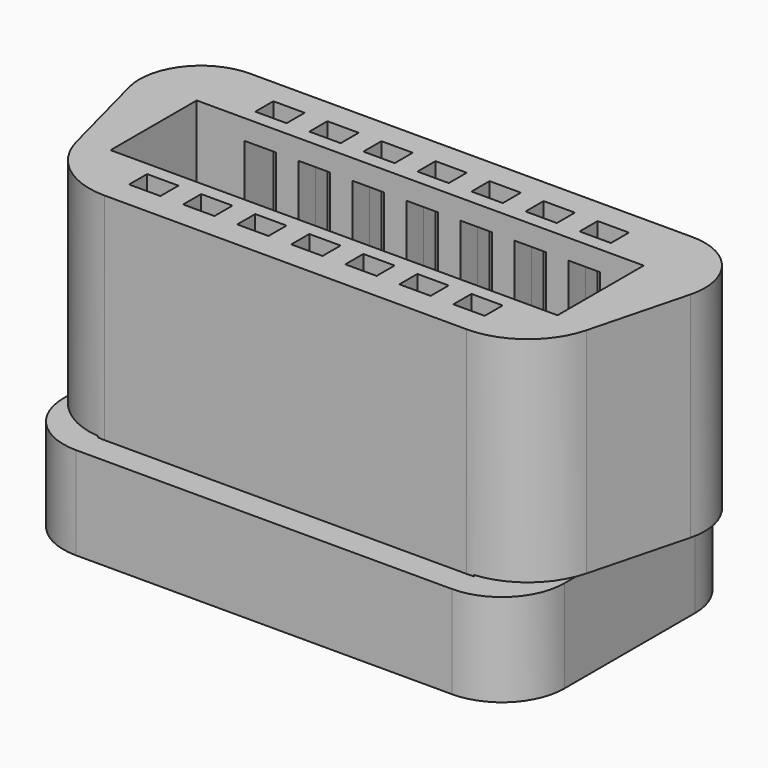
from build123d import *

# Parameters (mm, degrees)
PAD_DEPTH                       = 12.3
BOX059_W                        = 17.85
BOX059_H                        = 4.3
BOX059_DEPTH                    = 10
BOX060_W                        = 1.25
BOX060_H                        = 0.9
BOX060_DEPTH                    = 7.5
POCKET002_DEPTH                 = 2.3
POCKET002_LINEARPATTERN_2_DEPTH = 2.3
POCKET002_LINEARPATTERN_3_DEPTH = 2.3
POCKET002_LINEARPATTERN_4_DEPTH = 2.3
POCKET002_LINEARPATTERN_5_DEPTH = 2.3
POCKET002_LINEARPATTERN_6_DEPTH = 2.3
POCKET002_LINEARPATTERN_7_DEPTH = 2.3
BOX060_LINEARPATTERN001_2_W     = 1.25
BOX060_LINEARPATTERN001_2_H     = 0.9
BOX060_LINEARPATTERN001_2_DEPTH = 7.5
BOX060_LINEARPATTERN001_3_W     = 1.25
BOX060_LINEARPATTERN001_3_H     = 0.9
BOX060_LINEARPATTERN001_3_DEPTH = 7.5
BOX060_LINEARPATTERN001_4_W     = 1.25
BOX060_LINEARPATTERN001_4_H     = 0.9
BOX060_LINEARPATTERN001_4_DEPTH = 7.5
BOX060_LINEARPATTERN001_5_W     = 1.25
BOX060_LINEARPATTERN001_5_H     = 0.9
BOX060_LINEARPATTERN001_5_DEPTH = 7.5
BOX060_LINEARPATTERN001_6_W     = 1.25
BOX060_LINEARPATTERN001_6_H     = 0.9
BOX060_LINEARPATTERN001_6_DEPTH = 7.5
BOX060_LINEARPATTERN001_7_W     = 1.25
BOX060_LINEARPATTERN001_7_H     = 0.9
BOX060_LINEARPATTERN001_7_DEPTH = 7.5
BOX073_W                        = 1.27
BOX073_H                        = 1.3
BOX073_DEPTH                    = 5
BOX073_LINEARPATTERN002_2_W     = 1.27
BOX073_LINEARPATTERN002_2_H     = 1.3
BOX073_LINEARPATTERN002_2_DEPTH = 5
BOX073_LINEARPATTERN002_3_W     = 1.27
BOX073_LINEARPATTERN002_3_H     = 1.3
BOX073_LINEARPATTERN002_3_DEPTH = 5
BOX073_LINEARPATTERN002_4_W     = 1.27
BOX073_LINEARPATTERN002_4_H     = 1.3
BOX073_LINEARPATTERN002_4_DEPTH = 5
BOX073_LINEARPATTERN002_5_W     = 1.27
BOX073_LINEARPATTERN002_5_H     = 1.3
BOX073_LINEARPATTERN002_5_DEPTH = 5
BOX073_LINEARPATTERN002_6_W     = 1.27
BOX073_LINEARPATTERN002_6_H     = 1.3
BOX073_LINEARPATTERN002_6_DEPTH = 5
BOX073_LINEARPATTERN002_7_W     = 1.27
BOX073_LINEARPATTERN002_7_H     = 1.3
BOX073_LINEARPATTERN002_7_DEPTH = 5
BOX074_W                        = 5
BOX074_H                        = 10
BOX074_DEPTH                    = 4
BOX076_W                        = 2.5
BOX076_H                        = 11.5
BOX076_DEPTH                    = 3.7
BOX077_W                        = 15
BOX077_H                        = 1.155
BOX077_DEPTH                    = 3.7
BOX078_W                        = 15
BOX078_H                        = 1.11
BOX078_DEPTH                    = 3.7
FILLET076_R                     = 2.49


with BuildPart() as part:
    # Sketch004 → Pad (new body)
    with BuildSketch(Plane.XY):
        with BuildLine():
            Line((-8.83497, 4.603946), (0, 4.603946))
            Line((8.83497, 4.603946), (0, 4.603946))
            ThreePointArc((11.206338, 1.532899), (10.77499, 3.650898), (8.83497, 4.603946))
            Line((11.206338, 1.532899), (10.183771, -2.378367))
            ThreePointArc((7.230294, -4.658952), (9.096044, -4.02245), (10.183771, -2.378367))
            Line((0, -4.658952), (7.230294, -4.658952))
            Line((0, -4.658952), (-7.230294, -4.658952))
            ThreePointArc((-10.183771, -2.378367), (-9.096044, -4.02245), (-7.230294, -4.658952))
            Line((-11.206338, 1.532899), (-10.183771, -2.378367))
            ThreePointArc((-8.83497, 4.603946), (-10.77499, 3.650898), (-11.206338, 1.532899))
        make_face()
    extrude(amount=PAD_DEPTH)

    # Box059 → Box059 (cut)
    with BuildSketch(Plane(origin=(-9, -2.15, 2.3), x_dir=(1, 0, 0), z_dir=(0, 0, 1))):
        with Locations((8.925, 2.15)):
            Rectangle(BOX059_W, BOX059_H)
    extrude(amount=BOX059_DEPTH, mode=Mode.SUBTRACT)

    # Box060 → Box060 (cut)
    with BuildSketch(Plane(origin=(-7.1, 2.7, 5), x_dir=(1, 0, 0), z_dir=(0, 0, 1))):
        with Locations((0.625, 0.45)):
            Rectangle(BOX060_W, BOX060_H)
    box060 = extrude(amount=BOX060_DEPTH, mode=Mode.SUBTRACT)

    # Sketch005 → Pocket002 (cut, symmetric)
    with BuildSketch(Plane.XY):
        with BuildLine():
            ThreePointArc((-7.28, 2.34), (-7.250711, 2.269289), (-7.18, 2.24))
            Line((-5.78, 2.24), (-7.18, 2.24))
            ThreePointArc((-5.78, 2.24), (-5.709289, 2.269289), (-5.68, 2.34))
            Line((-5.68, 2.54), (-5.68, 2.34))
            ThreePointArc((-5.68, 2.54), (-5.709289, 2.610711), (-5.78, 2.64))
            Line((-7.18, 2.64), (-5.78, 2.64))
            ThreePointArc((-7.18, 2.64), (-7.250711, 2.610711), (-7.28, 2.54))
            Line((-7.28, 2.34), (-7.28, 2.54))
        make_face()
    pocket002 = extrude(amount=POCKET002_DEPTH, both=True, mode=Mode.SUBTRACT)

    # Sketch005 LinearPattern 2 → Pocket002 LinearPattern 2 (cut, symmetric)
    with BuildSketch(Plane(origin=(2.16, 0, 0), x_dir=(1, 0, 0), z_dir=(0, 0, 1))):
        with BuildLine():
            ThreePointArc((-7.28, 2.34), (-7.250711, 2.269289), (-7.18, 2.24))
            Line((-5.78, 2.24), (-7.18, 2.24))
            ThreePointArc((-5.78, 2.24), (-5.709289, 2.269289), (-5.68, 2.34))
            Line((-5.68, 2.54), (-5.68, 2.34))
            ThreePointArc((-5.68, 2.54), (-5.709289, 2.610711), (-5.78, 2.64))
            Line((-7.18, 2.64), (-5.78, 2.64))
            ThreePointArc((-7.18, 2.64), (-7.250711, 2.610711), (-7.28, 2.54))
            Line((-7.28, 2.34), (-7.28, 2.54))
        make_face()
    pocket002_linearpattern_2 = extrude(amount=POCKET002_LINEARPATTERN_2_DEPTH, both=True, mode=Mode.SUBTRACT)

    # Sketch005 LinearPattern 3 → Pocket002 LinearPattern 3 (cut, symmetric)
    with BuildSketch(Plane(origin=(4.32, 0, 0), x_dir=(1, 0, 0), z_dir=(0, 0, 1))):
        with BuildLine():
            ThreePointArc((-7.28, 2.34), (-7.250711, 2.269289), (-7.18, 2.24))
            Line((-5.78, 2.24), (-7.18, 2.24))
            ThreePointArc((-5.78, 2.24), (-5.709289, 2.269289), (-5.68, 2.34))
            Line((-5.68, 2.54), (-5.68, 2.34))
            ThreePointArc((-5.68, 2.54), (-5.709289, 2.610711), (-5.78, 2.64))
            Line((-7.18, 2.64), (-5.78, 2.64))
            ThreePointArc((-7.18, 2.64), (-7.250711, 2.610711), (-7.28, 2.54))
            Line((-7.28, 2.34), (-7.28, 2.54))
        make_face()
    pocket002_linearpattern_3 = extrude(amount=POCKET002_LINEARPATTERN_3_DEPTH, both=True, mode=Mode.SUBTRACT)

    # Sketch005 LinearPattern 4 → Pocket002 LinearPattern 4 (cut, symmetric)
    with BuildSketch(Plane(origin=(6.48, 0, 0), x_dir=(1, 0, 0), z_dir=(0, 0, 1))):
        with BuildLine():
            ThreePointArc((-7.28, 2.34), (-7.250711, 2.269289), (-7.18, 2.24))
            Line((-5.78, 2.24), (-7.18, 2.24))
            ThreePointArc((-5.78, 2.24), (-5.709289, 2.269289), (-5.68, 2.34))
            Line((-5.68, 2.54), (-5.68, 2.34))
            ThreePointArc((-5.68, 2.54), (-5.709289, 2.610711), (-5.78, 2.64))
            Line((-7.18, 2.64), (-5.78, 2.64))
            ThreePointArc((-7.18, 2.64), (-7.250711, 2.610711), (-7.28, 2.54))
            Line((-7.28, 2.34), (-7.28, 2.54))
        make_face()
    pocket002_linearpattern_4 = extrude(amount=POCKET002_LINEARPATTERN_4_DEPTH, both=True, mode=Mode.SUBTRACT)

    # Sketch005 LinearPattern 5 → Pocket002 LinearPattern 5 (cut, symmetric)
    with BuildSketch(Plane(origin=(8.64, 0, 0), x_dir=(1, 0, 0), z_dir=(0, 0, 1))):
        with BuildLine():
            ThreePointArc((-7.28, 2.34), (-7.250711, 2.269289), (-7.18, 2.24))
            Line((-5.78, 2.24), (-7.18, 2.24))
            ThreePointArc((-5.78, 2.24), (-5.709289, 2.269289), (-5.68, 2.34))
            Line((-5.68, 2.54), (-5.68, 2.34))
            ThreePointArc((-5.68, 2.54), (-5.709289, 2.610711), (-5.78, 2.64))
            Line((-7.18, 2.64), (-5.78, 2.64))
            ThreePointArc((-7.18, 2.64), (-7.250711, 2.610711), (-7.28, 2.54))
            Line((-7.28, 2.34), (-7.28, 2.54))
        make_face()
    pocket002_linearpattern_5 = extrude(amount=POCKET002_LINEARPATTERN_5_DEPTH, both=True, mode=Mode.SUBTRACT)

    # Sketch005 LinearPattern 6 → Pocket002 LinearPattern 6 (cut, symmetric)
    with BuildSketch(Plane(origin=(10.8, 0, 0), x_dir=(1, 0, 0), z_dir=(0, 0, 1))):
        with BuildLine():
            ThreePointArc((-7.28, 2.34), (-7.250711, 2.269289), (-7.18, 2.24))
            Line((-5.78, 2.24), (-7.18, 2.24))
            ThreePointArc((-5.78, 2.24), (-5.709289, 2.269289), (-5.68, 2.34))
            Line((-5.68, 2.54), (-5.68, 2.34))
            ThreePointArc((-5.68, 2.54), (-5.709289, 2.610711), (-5.78, 2.64))
            Line((-7.18, 2.64), (-5.78, 2.64))
            ThreePointArc((-7.18, 2.64), (-7.250711, 2.610711), (-7.28, 2.54))
            Line((-7.28, 2.34), (-7.28, 2.54))
        make_face()
    pocket002_linearpattern_6 = extrude(amount=POCKET002_LINEARPATTERN_6_DEPTH, both=True, mode=Mode.SUBTRACT)

    # Sketch005 LinearPattern 7 → Pocket002 LinearPattern 7 (cut, symmetric)
    with BuildSketch(Plane(origin=(12.96, 0, 0), x_dir=(1, 0, 0), z_dir=(0, 0, 1))):
        with BuildLine():
            ThreePointArc((-7.28, 2.34), (-7.250711, 2.269289), (-7.18, 2.24))
            Line((-5.78, 2.24), (-7.18, 2.24))
            ThreePointArc((-5.78, 2.24), (-5.709289, 2.269289), (-5.68, 2.34))
            Line((-5.68, 2.54), (-5.68, 2.34))
            ThreePointArc((-5.68, 2.54), (-5.709289, 2.610711), (-5.78, 2.64))
            Line((-7.18, 2.64), (-5.78, 2.64))
            ThreePointArc((-7.18, 2.64), (-7.250711, 2.610711), (-7.28, 2.54))
            Line((-7.28, 2.34), (-7.28, 2.54))
        make_face()
    pocket002_linearpattern_7 = extrude(amount=POCKET002_LINEARPATTERN_7_DEPTH, both=True, mode=Mode.SUBTRACT)

    # Mirrored: Pocket002, Pocket002 LinearPattern 2, Pocket002 LinearPattern 3, Pocket002 LinearPattern 4, Pocket002 LinearPattern 5, Pocket002 LinearPattern 6, Pocket002 LinearPattern 7 across Sketch005 H_Axis
    add(pocket002.mirror(Plane.ZX), mode=Mode.SUBTRACT)
    add(pocket002_linearpattern_2.mirror(Plane.ZX), mode=Mode.SUBTRACT)
    add(pocket002_linearpattern_3.mirror(Plane.ZX), mode=Mode.SUBTRACT)
    add(pocket002_linearpattern_4.mirror(Plane.ZX), mode=Mode.SUBTRACT)
    add(pocket002_linearpattern_5.mirror(Plane.ZX), mode=Mode.SUBTRACT)
    add(pocket002_linearpattern_6.mirror(Plane.ZX), mode=Mode.SUBTRACT)
    add(pocket002_linearpattern_7.mirror(Plane.ZX), mode=Mode.SUBTRACT)

    # Box060 LinearPattern001 2 → Box060 LinearPattern001 2 (cut)
    with BuildSketch(Plane(origin=(-4.941667, 2.7, 5), x_dir=(1, 0, 0), z_dir=(0, 0, 1))):
        with Locations((0.625, 0.45)):
            Rectangle(BOX060_LINEARPATTERN001_2_W, BOX060_LINEARPATTERN001_2_H)
    box060_linearpattern001_2 = extrude(amount=BOX060_LINEARPATTERN001_2_DEPTH, mode=Mode.SUBTRACT)

    # Box060 LinearPattern001 3 → Box060 LinearPattern001 3 (cut)
    with BuildSketch(Plane(origin=(-2.783333, 2.7, 5), x_dir=(1, 0, 0), z_dir=(0, 0, 1))):
        with Locations((0.625, 0.45)):
            Rectangle(BOX060_LINEARPATTERN001_3_W, BOX060_LINEARPATTERN001_3_H)
    box060_linearpattern001_3 = extrude(amount=BOX060_LINEARPATTERN001_3_DEPTH, mode=Mode.SUBTRACT)

    # Box060 LinearPattern001 4 → Box060 LinearPattern001 4 (cut)
    with BuildSketch(Plane(origin=(-0.625, 2.7, 5), x_dir=(1, 0, 0), z_dir=(0, 0, 1))):
        with Locations((0.625, 0.45)):
            Rectangle(BOX060_LINEARPATTERN001_4_W, BOX060_LINEARPATTERN001_4_H)
    box060_linearpattern001_4 = extrude(amount=BOX060_LINEARPATTERN001_4_DEPTH, mode=Mode.SUBTRACT)

    # Box060 LinearPattern001 5 → Box060 LinearPattern001 5 (cut)
    with BuildSketch(Plane(origin=(1.533333, 2.7, 5), x_dir=(1, 0, 0), z_dir=(0, 0, 1))):
        with Locations((0.625, 0.45)):
            Rectangle(BOX060_LINEARPATTERN001_5_W, BOX060_LINEARPATTERN001_5_H)
    box060_linearpattern001_5 = extrude(amount=BOX060_LINEARPATTERN001_5_DEPTH, mode=Mode.SUBTRACT)

    # Box060 LinearPattern001 6 → Box060 LinearPattern001 6 (cut)
    with BuildSketch(Plane(origin=(3.691667, 2.7, 5), x_dir=(1, 0, 0), z_dir=(0, 0, 1))):
        with Locations((0.625, 0.45)):
            Rectangle(BOX060_LINEARPATTERN001_6_W, BOX060_LINEARPATTERN001_6_H)
    box060_linearpattern001_6 = extrude(amount=BOX060_LINEARPATTERN001_6_DEPTH, mode=Mode.SUBTRACT)

    # Box060 LinearPattern001 7 → Box060 LinearPattern001 7 (cut)
    with BuildSketch(Plane(origin=(5.85, 2.7, 5), x_dir=(1, 0, 0), z_dir=(0, 0, 1))):
        with Locations((0.625, 0.45)):
            Rectangle(BOX060_LINEARPATTERN001_7_W, BOX060_LINEARPATTERN001_7_H)
    box060_linearpattern001_7 = extrude(amount=BOX060_LINEARPATTERN001_7_DEPTH, mode=Mode.SUBTRACT)

    # Mirrored001: Box060, Box060 LinearPattern001 2, Box060 LinearPattern001 3, Box060 LinearPattern001 4, Box060 LinearPattern001 5, Box060 LinearPattern001 6, Box060 LinearPattern001 7 across XZ
    add(box060.mirror(Plane.XZ), mode=Mode.SUBTRACT)
    add(box060_linearpattern001_2.mirror(Plane.XZ), mode=Mode.SUBTRACT)
    add(box060_linearpattern001_3.mirror(Plane.XZ), mode=Mode.SUBTRACT)
    add(box060_linearpattern001_4.mirror(Plane.XZ), mode=Mode.SUBTRACT)
    add(box060_linearpattern001_5.mirror(Plane.XZ), mode=Mode.SUBTRACT)
    add(box060_linearpattern001_6.mirror(Plane.XZ), mode=Mode.SUBTRACT)
    add(box060_linearpattern001_7.mirror(Plane.XZ), mode=Mode.SUBTRACT)

    # Box073 → Box073 (cut)
    with BuildSketch(Plane(origin=(-7.1, -3, 6.5), x_dir=(1, 0, 0), z_dir=(0, 0, 1))):
        with Locations((0.635, 0.65)):
            Rectangle(BOX073_W, BOX073_H)
    box073 = extrude(amount=BOX073_DEPTH, mode=Mode.SUBTRACT)

    # Box073 LinearPattern002 2 → Box073 LinearPattern002 2 (cut)
    with BuildSketch(Plane(origin=(-4.943333, -3, 6.5), x_dir=(1, 0, 0), z_dir=(0, 0, 1))):
        with Locations((0.635, 0.65)):
            Rectangle(BOX073_LINEARPATTERN002_2_W, BOX073_LINEARPATTERN002_2_H)
    box073_linearpattern002_2 = extrude(amount=BOX073_LINEARPATTERN002_2_DEPTH, mode=Mode.SUBTRACT)

    # Box073 LinearPattern002 3 → Box073 LinearPattern002 3 (cut)
    with BuildSketch(Plane(origin=(-2.786667, -3, 6.5), x_dir=(1, 0, 0), z_dir=(0, 0, 1))):
        with Locations((0.635, 0.65)):
            Rectangle(BOX073_LINEARPATTERN002_3_W, BOX073_LINEARPATTERN002_3_H)
    box073_linearpattern002_3 = extrude(amount=BOX073_LINEARPATTERN002_3_DEPTH, mode=Mode.SUBTRACT)

    # Box073 LinearPattern002 4 → Box073 LinearPattern002 4 (cut)
    with BuildSketch(Plane(origin=(-0.63, -3, 6.5), x_dir=(1, 0, 0), z_dir=(0, 0, 1))):
        with Locations((0.635, 0.65)):
            Rectangle(BOX073_LINEARPATTERN002_4_W, BOX073_LINEARPATTERN002_4_H)
    box073_linearpattern002_4 = extrude(amount=BOX073_LINEARPATTERN002_4_DEPTH, mode=Mode.SUBTRACT)

    # Box073 LinearPattern002 5 → Box073 LinearPattern002 5 (cut)
    with BuildSketch(Plane(origin=(1.526667, -3, 6.5), x_dir=(1, 0, 0), z_dir=(0, 0, 1))):
        with Locations((0.635, 0.65)):
            Rectangle(BOX073_LINEARPATTERN002_5_W, BOX073_LINEARPATTERN002_5_H)
    box073_linearpattern002_5 = extrude(amount=BOX073_LINEARPATTERN002_5_DEPTH, mode=Mode.SUBTRACT)

    # Box073 LinearPattern002 6 → Box073 LinearPattern002 6 (cut)
    with BuildSketch(Plane(origin=(3.683333, -3, 6.5), x_dir=(1, 0, 0), z_dir=(0, 0, 1))):
        with Locations((0.635, 0.65)):
            Rectangle(BOX073_LINEARPATTERN002_6_W, BOX073_LINEARPATTERN002_6_H)
    box073_linearpattern002_6 = extrude(amount=BOX073_LINEARPATTERN002_6_DEPTH, mode=Mode.SUBTRACT)

    # Box073 LinearPattern002 7 → Box073 LinearPattern002 7 (cut)
    with BuildSketch(Plane(origin=(5.84, -3, 6.5), x_dir=(1, 0, 0), z_dir=(0, 0, 1))):
        with Locations((0.635, 0.65)):
            Rectangle(BOX073_LINEARPATTERN002_7_W, BOX073_LINEARPATTERN002_7_H)
    box073_linearpattern002_7 = extrude(amount=BOX073_LINEARPATTERN002_7_DEPTH, mode=Mode.SUBTRACT)

    # Mirrored004: Box073, Box073 LinearPattern002 2, Box073 LinearPattern002 3, Box073 LinearPattern002 4, Box073 LinearPattern002 5, Box073 LinearPattern002 6, Box073 LinearPattern002 7 across XZ
    add(box073.mirror(Plane.XZ), mode=Mode.SUBTRACT)
    add(box073_linearpattern002_2.mirror(Plane.XZ), mode=Mode.SUBTRACT)
    add(box073_linearpattern002_3.mirror(Plane.XZ), mode=Mode.SUBTRACT)
    add(box073_linearpattern002_4.mirror(Plane.XZ), mode=Mode.SUBTRACT)
    add(box073_linearpattern002_5.mirror(Plane.XZ), mode=Mode.SUBTRACT)
    add(box073_linearpattern002_6.mirror(Plane.XZ), mode=Mode.SUBTRACT)
    add(box073_linearpattern002_7.mirror(Plane.XZ), mode=Mode.SUBTRACT)

    # Box074 → Box074 (cut)
    with BuildSketch(Plane(origin=(-12.5, -5, -0.25), x_dir=(1, 0, 0), z_dir=(0, 0, 1))):
        with Locations((2.5, 5)):
            Rectangle(BOX074_W, BOX074_H)
    box074 = extrude(amount=BOX074_DEPTH, mode=Mode.SUBTRACT)

    # Mirrored005: Box074 across YZ
    add(box074.mirror(Plane.YZ), mode=Mode.SUBTRACT)

    # Box076 → Box076 (join)
    with BuildSketch(Plane(origin=(7.5, -5.74, 0), x_dir=(1, 0, 0), z_dir=(0, 0, 1))):
        with Locations((1.25, 5.75)):
            Rectangle(BOX076_W, BOX076_H)
    box076 = extrude(amount=BOX076_DEPTH)

    # Mirrored007: Box076 across YZ
    add(box076.mirror(Plane.YZ))

    # Box077 → Box077 (join)
    with BuildSketch(Plane(origin=(-7.5, 4.605, 0), x_dir=(1, 0, 0), z_dir=(0, 0, 1))):
        with Locations((7.5, 0.5775)):
            Rectangle(BOX077_W, BOX077_H)
    extrude(amount=BOX077_DEPTH)

    # Box078 → Box078 (join)
    with BuildSketch(Plane(origin=(-7.5, -5.74, 0), x_dir=(1, 0, 0), z_dir=(0, 0, 1))):
        with Locations((7.5, 0.555)):
            Rectangle(BOX078_W, BOX078_H)
    extrude(amount=BOX078_DEPTH)

    # Fillet076
    fillet076_edges = [part.edges().sort_by_distance(p)[0] for p in [
        (10, 5.76, 1.85),
        (10, -5.74, 1.85),
        (-10, 5.76, 1.85),
        (-10, -5.74, 1.85),
    ]]
    fillet(fillet076_edges, radius=FILLET076_R)


with BuildPart() as part_1:
    # Body002 placement: moved
    add(part.part.moved(Location((0, 0, 0.05))))


solid = part_1.part
